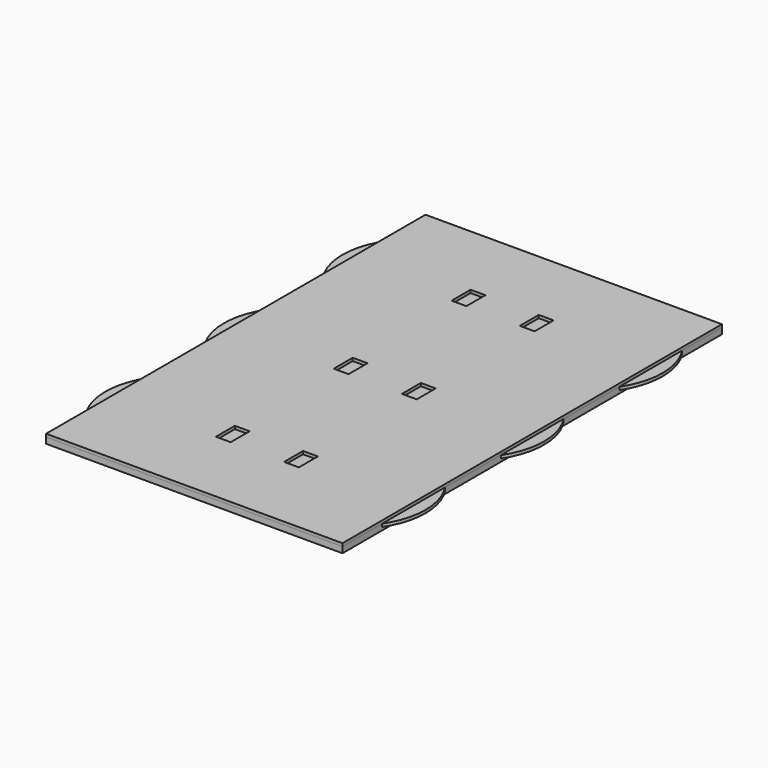
from build123d import *

# Parameters (mm, degrees)
F0_W     = 5
F0_H     = 8
F1_DEPTH = 2
F2_DEPTH = 1
F3_DEPTH = 1
F4_DEPTH = 1


with BuildPart() as f1:
    # F0 (on Top) → F1 (new body)
    with BuildSketch(Plane.XY):
        with BuildLine():
            ThreePointArc((100, 143.2664991614), (56, 130), (100, 116.7335008386))
            Line((100, 116.7335008386), (100, 143.2664991614))
        make_face()
        with Locations((61.5, 130)):
            Rectangle(F0_W, F0_H, mode=Mode.SUBTRACT)
        with BuildLine():
            Line((0, 16.7335008386), (0, 0))
            Line((0, 0), (100, 0))
            Line((100, 0), (100, 16.7335008386))
            ThreePointArc((100, 16.7335008386), (56, 30), (100, 43.2664991614))
            Line((100, 43.2664991614), (100, 66.7335008386))
            ThreePointArc((100, 66.7335008386), (56, 80), (100, 93.2664991614))
            Line((100, 93.2664991614), (100, 116.7335008386))
            ThreePointArc((100, 116.7335008386), (56, 130), (100, 143.2664991614))
            Line((100, 143.2664991614), (100, 160))
            Line((100, 160), (0, 160))
            Line((0, 160), (0, 143.2664991614))
            ThreePointArc((0, 143.2664991614), (26.9282032303, 152.9782505862), (44, 130))
            ThreePointArc((44, 130), (26.9282032303, 107.0217494138), (0, 116.7335008386))
            Line((0, 116.7335008386), (0, 93.2664991614))
            ThreePointArc((0, 93.2664991614), (26.9282032303, 102.9782505862), (44, 80))
            ThreePointArc((44, 80), (26.9282032303, 57.0217494138), (0, 66.7335008386))
            Line((0, 66.7335008386), (0, 43.2664991614))
            ThreePointArc((0, 43.2664991614), (26.9282032303, 52.9782505862), (44, 30))
            ThreePointArc((44, 30), (26.9282032303, 7.0217494138), (0, 16.7335008386))
        make_face()
        with BuildLine():
            ThreePointArc((100, 43.2664991614), (56, 30), (100, 16.7335008386))
            Line((100, 16.7335008386), (100, 43.2664991614))
        make_face()
        with Locations((61.5, 30.6)):
            Rectangle(F0_W, F0_H, mode=Mode.SUBTRACT)
        with BuildLine():
            Line((0, 93.2664991614), (0, 66.7335008386))
            ThreePointArc((0, 66.7335008386), (26.9282032303, 57.0217494138), (44, 80))
            ThreePointArc((44, 80), (26.9282032303, 102.9782505862), (0, 93.2664991614))
        make_face()
        with Locations((38.5, 80.3)):
            Rectangle(F0_W, F0_H, mode=Mode.SUBTRACT)
        with BuildLine():
            ThreePointArc((100, 93.2664991614), (56, 80), (100, 66.7335008386))
            Line((100, 66.7335008386), (100, 93.2664991614))
        make_face()
        with Locations((61.5, 80.3)):
            Rectangle(F0_W, F0_H, mode=Mode.SUBTRACT)
        with BuildLine():
            Line((0, 16.7335008386), (0, 0))
            Line((0, 0), (100, 0))
            Line((100, 0), (100, 16.7335008386))
            ThreePointArc((100, 16.7335008386), (56, 30), (100, 43.2664991614))
            Line((100, 43.2664991614), (100, 66.7335008386))
            ThreePointArc((100, 66.7335008386), (56, 80), (100, 93.2664991614))
            Line((100, 93.2664991614), (100, 116.7335008386))
            ThreePointArc((100, 116.7335008386), (56, 130), (100, 143.2664991614))
            Line((100, 143.2664991614), (100, 160))
            Line((100, 160), (0, 160))
            Line((0, 160), (0, 143.2664991614))
            ThreePointArc((0, 143.2664991614), (26.9282032303, 152.9782505862), (44, 130))
            ThreePointArc((44, 130), (26.9282032303, 107.0217494138), (0, 116.7335008386))
            Line((0, 116.7335008386), (0, 93.2664991614))
            ThreePointArc((0, 93.2664991614), (26.9282032303, 102.9782505862), (44, 80))
            ThreePointArc((44, 80), (26.9282032303, 57.0217494138), (0, 66.7335008386))
            Line((0, 66.7335008386), (0, 43.2664991614))
            ThreePointArc((0, 43.2664991614), (26.9282032303, 52.9782505862), (44, 30))
            ThreePointArc((44, 30), (26.9282032303, 7.0217494138), (0, 16.7335008386))
        make_face()
        with BuildLine():
            Line((0, 16.7335008386), (0, 0))
            Line((0, 0), (100, 0))
            Line((100, 0), (100, 16.7335008386))
            ThreePointArc((100, 16.7335008386), (56, 30), (100, 43.2664991614))
            Line((100, 43.2664991614), (100, 66.7335008386))
            ThreePointArc((100, 66.7335008386), (56, 80), (100, 93.2664991614))
            Line((100, 93.2664991614), (100, 116.7335008386))
            ThreePointArc((100, 116.7335008386), (56, 130), (100, 143.2664991614))
            Line((100, 143.2664991614), (100, 160))
            Line((100, 160), (0, 160))
            Line((0, 160), (0, 143.2664991614))
            ThreePointArc((0, 143.2664991614), (26.9282032303, 152.9782505862), (44, 130))
            ThreePointArc((44, 130), (26.9282032303, 107.0217494138), (0, 116.7335008386))
            Line((0, 116.7335008386), (0, 93.2664991614))
            ThreePointArc((0, 93.2664991614), (26.9282032303, 102.9782505862), (44, 80))
            ThreePointArc((44, 80), (26.9282032303, 57.0217494138), (0, 66.7335008386))
            Line((0, 66.7335008386), (0, 43.2664991614))
            ThreePointArc((0, 43.2664991614), (26.9282032303, 52.9782505862), (44, 30))
            ThreePointArc((44, 30), (26.9282032303, 7.0217494138), (0, 16.7335008386))
        make_face()
        with BuildLine():
            Line((0, 16.7335008386), (0, 0))
            Line((0, 0), (100, 0))
            Line((100, 0), (100, 16.7335008386))
            ThreePointArc((100, 16.7335008386), (56, 30), (100, 43.2664991614))
            Line((100, 43.2664991614), (100, 66.7335008386))
            ThreePointArc((100, 66.7335008386), (56, 80), (100, 93.2664991614))
            Line((100, 93.2664991614), (100, 116.7335008386))
            ThreePointArc((100, 116.7335008386), (56, 130), (100, 143.2664991614))
            Line((100, 143.2664991614), (100, 160))
            Line((100, 160), (0, 160))
            Line((0, 160), (0, 143.2664991614))
            ThreePointArc((0, 143.2664991614), (26.9282032303, 152.9782505862), (44, 130))
            ThreePointArc((44, 130), (26.9282032303, 107.0217494138), (0, 116.7335008386))
            Line((0, 116.7335008386), (0, 93.2664991614))
            ThreePointArc((0, 93.2664991614), (26.9282032303, 102.9782505862), (44, 80))
            ThreePointArc((44, 80), (26.9282032303, 57.0217494138), (0, 66.7335008386))
            Line((0, 66.7335008386), (0, 43.2664991614))
            ThreePointArc((0, 43.2664991614), (26.9282032303, 52.9782505862), (44, 30))
            ThreePointArc((44, 30), (26.9282032303, 7.0217494138), (0, 16.7335008386))
        make_face()
        with BuildLine():
            Line((0, 43.2664991614), (0, 16.7335008386))
            ThreePointArc((0, 16.7335008386), (26.9282032303, 7.0217494138), (44, 30))
            ThreePointArc((44, 30), (26.9282032303, 52.9782505862), (0, 43.2664991614))
        make_face()
        with Locations((38.5, 30.6)):
            Rectangle(F0_W, F0_H, mode=Mode.SUBTRACT)
        with BuildLine():
            Line((0, 143.2664991614), (0, 116.7335008386))
            ThreePointArc((0, 116.7335008386), (26.9282032303, 107.0217494138), (44, 130))
            ThreePointArc((44, 130), (26.9282032303, 152.9782505862), (0, 143.2664991614))
        make_face()
        with Locations((38.5, 130)):
            Rectangle(F0_W, F0_H, mode=Mode.SUBTRACT)
        with Locations((38.5, 80.3)):
            Rectangle(F0_W, F0_H)
        with Locations((38.5, 130)):
            Rectangle(F0_W, F0_H)
        with Locations((61.5, 130)):
            Rectangle(F0_W, F0_H)
        with Locations((61.5, 80.3)):
            Rectangle(F0_W, F0_H)
        with Locations((38.5, 30.6)):
            Rectangle(F0_W, F0_H)
        with Locations((61.5, 30.6)):
            Rectangle(F0_W, F0_H)
        with BuildLine():
            Line((0, 16.7335008386), (0, 0))
            Line((0, 0), (100, 0))
            Line((100, 0), (100, 16.7335008386))
            ThreePointArc((100, 16.7335008386), (56, 30), (100, 43.2664991614))
            Line((100, 43.2664991614), (100, 66.7335008386))
            ThreePointArc((100, 66.7335008386), (56, 80), (100, 93.2664991614))
            Line((100, 93.2664991614), (100, 116.7335008386))
            ThreePointArc((100, 116.7335008386), (56, 130), (100, 143.2664991614))
            Line((100, 143.2664991614), (100, 160))
            Line((100, 160), (0, 160))
            Line((0, 160), (0, 143.2664991614))
            ThreePointArc((0, 143.2664991614), (26.9282032303, 152.9782505862), (44, 130))
            ThreePointArc((44, 130), (26.9282032303, 107.0217494138), (0, 116.7335008386))
            Line((0, 116.7335008386), (0, 93.2664991614))
            ThreePointArc((0, 93.2664991614), (26.9282032303, 102.9782505862), (44, 80))
            ThreePointArc((44, 80), (26.9282032303, 57.0217494138), (0, 66.7335008386))
            Line((0, 66.7335008386), (0, 43.2664991614))
            ThreePointArc((0, 43.2664991614), (26.9282032303, 52.9782505862), (44, 30))
            ThreePointArc((44, 30), (26.9282032303, 7.0217494138), (0, 16.7335008386))
        make_face()
    extrude(amount=-F1_DEPTH)

    # F0 (on Top) → F2 (cut)
    with BuildSketch(Plane.XY):
        with BuildLine():
            Line((0, 143.2664991614), (0, 116.7335008386))
            ThreePointArc((0, 116.7335008386), (26.9282032303, 107.0217494138), (44, 130))
            ThreePointArc((44, 130), (26.9282032303, 152.9782505862), (0, 143.2664991614))
        make_face()
        with Locations((38.5, 130)):
            Rectangle(F0_W, F0_H, mode=Mode.SUBTRACT)
        with Locations((38.5, 130)):
            Rectangle(F0_W, F0_H)
        with BuildLine():
            ThreePointArc((100, 143.2664991614), (56, 130), (100, 116.7335008386))
            Line((100, 116.7335008386), (100, 143.2664991614))
        make_face()
        with Locations((61.5, 130)):
            Rectangle(F0_W, F0_H, mode=Mode.SUBTRACT)
        with Locations((61.5, 130)):
            Rectangle(F0_W, F0_H)
        with BuildLine():
            Line((0, 93.2664991614), (0, 66.7335008386))
            ThreePointArc((0, 66.7335008386), (26.9282032303, 57.0217494138), (44, 80))
            ThreePointArc((44, 80), (26.9282032303, 102.9782505862), (0, 93.2664991614))
        make_face()
        with Locations((38.5, 80.3)):
            Rectangle(F0_W, F0_H, mode=Mode.SUBTRACT)
        with Locations((38.5, 80.3)):
            Rectangle(F0_W, F0_H)
        with BuildLine():
            ThreePointArc((100, 93.2664991614), (56, 80), (100, 66.7335008386))
            Line((100, 66.7335008386), (100, 93.2664991614))
        make_face()
        with Locations((61.5, 80.3)):
            Rectangle(F0_W, F0_H, mode=Mode.SUBTRACT)
        with Locations((61.5, 80.3)):
            Rectangle(F0_W, F0_H)
        with BuildLine():
            Line((0, 43.2664991614), (0, 16.7335008386))
            ThreePointArc((0, 16.7335008386), (26.9282032303, 7.0217494138), (44, 30))
            ThreePointArc((44, 30), (26.9282032303, 52.9782505862), (0, 43.2664991614))
        make_face()
        with Locations((38.5, 30.6)):
            Rectangle(F0_W, F0_H, mode=Mode.SUBTRACT)
        with BuildLine():
            ThreePointArc((100, 43.2664991614), (56, 30), (100, 16.7335008386))
            Line((100, 16.7335008386), (100, 43.2664991614))
        make_face()
        with Locations((61.5, 30.6)):
            Rectangle(F0_W, F0_H, mode=Mode.SUBTRACT)
        with Locations((38.5, 30.6)):
            Rectangle(F0_W, F0_H)
        with Locations((61.5, 30.6)):
            Rectangle(F0_W, F0_H)
    extrude(amount=-F2_DEPTH, mode=Mode.SUBTRACT)


with BuildPart() as f3:
    # F0 (on Top) → F3 (new body)
    with BuildSketch(Plane.XY):
        with BuildLine():
            Line((0, 143.2664991614), (0, 116.7335008386))
            ThreePointArc((0, 116.7335008386), (26.9282032303, 107.0217494138), (44, 130))
            ThreePointArc((44, 130), (26.9282032303, 152.9782505862), (0, 143.2664991614))
        make_face()
        with Locations((38.5, 130)):
            Rectangle(F0_W, F0_H, mode=Mode.SUBTRACT)
        with BuildLine():
            ThreePointArc((0, 143.2664991614), (-4, 130), (0, 116.7335008386))
            Line((0, 116.7335008386), (0, 143.2664991614))
        make_face()
        with Locations((38.5, 130)):
            Rectangle(F0_W, F0_H)
    extrude(amount=-F3_DEPTH)


with BuildPart() as f3b:
    # F0 (on Top) → F3, piece 2 (new body)
    with BuildSketch(Plane.XY):
        with BuildLine():
            ThreePointArc((100, 143.2664991614), (56, 130), (100, 116.7335008386))
            Line((100, 116.7335008386), (100, 143.2664991614))
        make_face()
        with Locations((61.5, 130)):
            Rectangle(F0_W, F0_H, mode=Mode.SUBTRACT)
        with BuildLine():
            Line((100, 143.2664991614), (100, 116.7335008386))
            ThreePointArc((100, 116.7335008386), (102.9782505862, 123.0717967697), (104, 130))
            ThreePointArc((104, 130), (102.9782505862, 136.9282032303), (100, 143.2664991614))
        make_face()
        with Locations((61.5, 130)):
            Rectangle(F0_W, F0_H)
    extrude(amount=-F3_DEPTH)


with BuildPart() as f3c:
    # F0 (on Top) → F3, piece 3 (new body)
    with BuildSketch(Plane.XY):
        with BuildLine():
            Line((100, 93.2664991614), (100, 66.7335008386))
            ThreePointArc((100, 66.7335008386), (102.9782505862, 73.0717967697), (104, 80))
            ThreePointArc((104, 80), (102.9782505862, 86.9282032303), (100, 93.2664991614))
        make_face()
    extrude(amount=-F3_DEPTH)


with BuildPart() as f3d:
    # F0 (on Top) → F3, piece 4 (new body)
    with BuildSketch(Plane.XY):
        with BuildLine():
            ThreePointArc((100, 43.2664991614), (56, 30), (100, 16.7335008386))
            Line((100, 16.7335008386), (100, 43.2664991614))
        make_face()
        with Locations((61.5, 30.6)):
            Rectangle(F0_W, F0_H, mode=Mode.SUBTRACT)
        with BuildLine():
            Line((100, 43.2664991614), (100, 16.7335008386))
            ThreePointArc((100, 16.7335008386), (102.9782505862, 23.0717967697), (104, 30))
            ThreePointArc((104, 30), (102.9782505862, 36.9282032303), (100, 43.2664991614))
        make_face()
        with Locations((61.5, 30.6)):
            Rectangle(F0_W, F0_H)
    extrude(amount=-F3_DEPTH)


with BuildPart() as f3e:
    # F0 (on Top) → F3, piece 5 (new body)
    with BuildSketch(Plane.XY):
        with BuildLine():
            Line((0, 43.2664991614), (0, 16.7335008386))
            ThreePointArc((0, 16.7335008386), (26.9282032303, 7.0217494138), (44, 30))
            ThreePointArc((44, 30), (26.9282032303, 52.9782505862), (0, 43.2664991614))
        make_face()
        with Locations((38.5, 30.6)):
            Rectangle(F0_W, F0_H, mode=Mode.SUBTRACT)
        with BuildLine():
            ThreePointArc((0, 43.2664991614), (-4, 30), (0, 16.7335008386))
            Line((0, 16.7335008386), (0, 43.2664991614))
        make_face()
        with Locations((38.5, 30.6)):
            Rectangle(F0_W, F0_H)
    extrude(amount=-F3_DEPTH)


with BuildPart() as f3f:
    # F0 (on Top) → F3, piece 6 (new body)
    with BuildSketch(Plane.XY):
        with BuildLine():
            ThreePointArc((0, 93.2664991614), (-4, 80), (0, 66.7335008386))
            Line((0, 66.7335008386), (0, 93.2664991614))
        make_face()
        with BuildLine():
            Line((0, 93.2664991614), (0, 66.7335008386))
            ThreePointArc((0, 66.7335008386), (26.9282032303, 57.0217494138), (44, 80))
            ThreePointArc((44, 80), (26.9282032303, 102.9782505862), (0, 93.2664991614))
        make_face()
        with Locations((38.5, 80.3)):
            Rectangle(F0_W, F0_H, mode=Mode.SUBTRACT)
        with Locations((38.5, 80.3)):
            Rectangle(F0_W, F0_H)
    extrude(amount=-F3_DEPTH)


with BuildPart() as f4:
    # F0 (on Top) → F4 (new body)
    with BuildSketch(Plane.XY):
        with BuildLine():
            Line((0, 16.7335008386), (0, 0))
            Line((0, 0), (100, 0))
            Line((100, 0), (100, 16.7335008386))
            ThreePointArc((100, 16.7335008386), (56, 30), (100, 43.2664991614))
            Line((100, 43.2664991614), (100, 66.7335008386))
            ThreePointArc((100, 66.7335008386), (56, 80), (100, 93.2664991614))
            Line((100, 93.2664991614), (100, 116.7335008386))
            ThreePointArc((100, 116.7335008386), (56, 130), (100, 143.2664991614))
            Line((100, 143.2664991614), (100, 160))
            Line((100, 160), (0, 160))
            Line((0, 160), (0, 143.2664991614))
            ThreePointArc((0, 143.2664991614), (26.9282032303, 152.9782505862), (44, 130))
            ThreePointArc((44, 130), (26.9282032303, 107.0217494138), (0, 116.7335008386))
            Line((0, 116.7335008386), (0, 93.2664991614))
            ThreePointArc((0, 93.2664991614), (26.9282032303, 102.9782505862), (44, 80))
            ThreePointArc((44, 80), (26.9282032303, 57.0217494138), (0, 66.7335008386))
            Line((0, 66.7335008386), (0, 43.2664991614))
            ThreePointArc((0, 43.2664991614), (26.9282032303, 52.9782505862), (44, 30))
            ThreePointArc((44, 30), (26.9282032303, 7.0217494138), (0, 16.7335008386))
        make_face()
        with BuildLine():
            Line((0, 143.2664991614), (0, 116.7335008386))
            ThreePointArc((0, 116.7335008386), (26.9282032303, 107.0217494138), (44, 130))
            ThreePointArc((44, 130), (26.9282032303, 152.9782505862), (0, 143.2664991614))
        make_face()
        with Locations((38.5, 130)):
            Rectangle(F0_W, F0_H, mode=Mode.SUBTRACT)
        with BuildLine():
            ThreePointArc((100, 143.2664991614), (56, 130), (100, 116.7335008386))
            Line((100, 116.7335008386), (100, 143.2664991614))
        make_face()
        with Locations((61.5, 130)):
            Rectangle(F0_W, F0_H, mode=Mode.SUBTRACT)
        with BuildLine():
            ThreePointArc((100, 93.2664991614), (56, 80), (100, 66.7335008386))
            Line((100, 66.7335008386), (100, 93.2664991614))
        make_face()
        with Locations((61.5, 80.3)):
            Rectangle(F0_W, F0_H, mode=Mode.SUBTRACT)
        with BuildLine():
            Line((0, 93.2664991614), (0, 66.7335008386))
            ThreePointArc((0, 66.7335008386), (26.9282032303, 57.0217494138), (44, 80))
            ThreePointArc((44, 80), (26.9282032303, 102.9782505862), (0, 93.2664991614))
        make_face()
        with Locations((38.5, 80.3)):
            Rectangle(F0_W, F0_H, mode=Mode.SUBTRACT)
        with BuildLine():
            Line((0, 43.2664991614), (0, 16.7335008386))
            ThreePointArc((0, 16.7335008386), (26.9282032303, 7.0217494138), (44, 30))
            ThreePointArc((44, 30), (26.9282032303, 52.9782505862), (0, 43.2664991614))
        make_face()
        with Locations((38.5, 30.6)):
            Rectangle(F0_W, F0_H, mode=Mode.SUBTRACT)
        with BuildLine():
            ThreePointArc((100, 43.2664991614), (56, 30), (100, 16.7335008386))
            Line((100, 16.7335008386), (100, 43.2664991614))
        make_face()
        with Locations((61.5, 30.6)):
            Rectangle(F0_W, F0_H, mode=Mode.SUBTRACT)
    extrude(amount=F4_DEPTH)


solid = Compound([f1.part, f3.part, f3b.part, f3c.part, f3d.part, f3e.part, f3f.part, f4.part])
